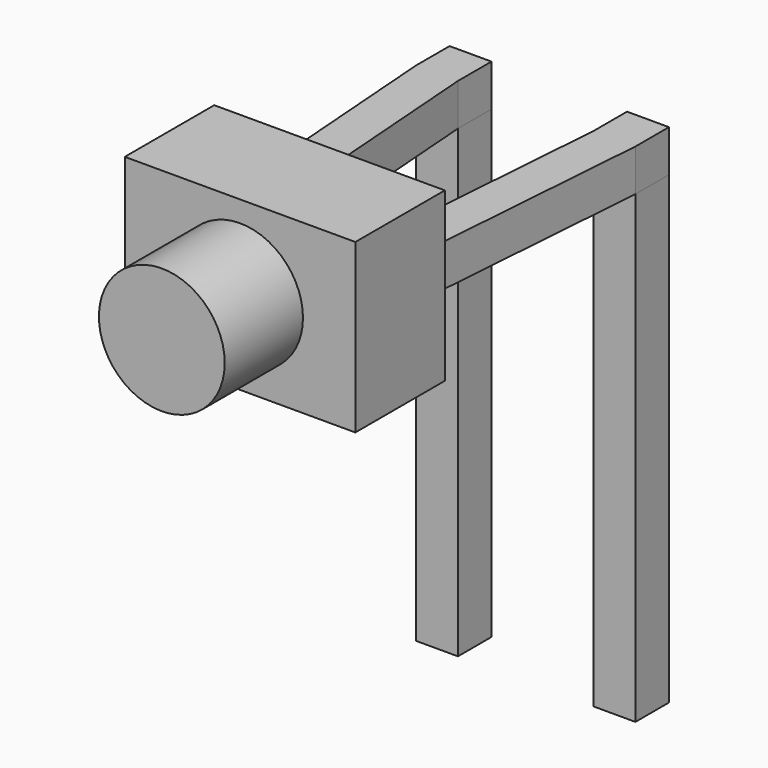
from build123d import *

# Parameters (mm, degrees)
SKETCH_W       = 0.6
SKETCH_H       = 0.6
PAD_DEPTH      = 4.65
PAD_DEPTH_BACK = 2
PAD001_DEPTH   = 0.6
SKETCH002_W    = 2.54
SKETCH002_H    = 0.6
PAD002_DEPTH   = 1
SKETCH004_W    = 3.3
SKETCH004_H    = 2.4
PAD003_DEPTH   = 1.6
SKETCH006_R    = 0.9
PAD004_DEPTH   = 1.4


with BuildPart() as pad:
    # Sketch → Pad (new body, two sides)
    with BuildSketch(Plane.XY) as pad_sk:
        Rectangle(SKETCH_W, SKETCH_H)
        with Locations((2.54, 0)):
            Rectangle(SKETCH_W, SKETCH_H)
    extrude(amount=PAD_DEPTH)
    extrude(pad_sk.sketch, amount=-PAD_DEPTH_BACK)


with BuildPart() as pad001:
    # Sketch001 → Pad001 (new body)
    with BuildSketch(Plane.XY.offset(4.65)):
        Polygon((0.3, 0.3), (-0.3, 0.3), (-0.3, -0.3), (0, -4.31), (0.6, -4.31), (0.3, -0.3), align=None)
        Polygon((2.84, 0.3), (2.24, 0.3), (2.24, -0.3), (1.94, -4.31), (2.54, -4.31), (2.84, -0.3), align=None)
    extrude(amount=PAD001_DEPTH)


with BuildPart() as pad002:
    # Sketch002 → Pad002 (new body)
    with BuildSketch(Plane.XZ.offset(4.31)):
        with Locations((1.27, 4.95)):
            Rectangle(SKETCH002_W, SKETCH002_H)
    extrude(amount=PAD002_DEPTH)


with BuildPart() as revolution001:
    # Sketch005 → Revolution001 (revolve)
    with BuildSketch(Plane.YZ.offset(1.27)):
        Polygon((-5.01, 4.95), (-5.51, 4.95), (-5.51, 5.45), align=None)
    revolve(axis=Axis((1.27, -3.977201, 4.95), (0, -1, 0)))


with BuildPart() as pad004:
    # Sketch004 → Pad003 (new body)
    with BuildSketch(Plane.XZ.offset(3.81)):
        with Locations((1.27, 4.95)):
            Rectangle(SKETCH004_W, SKETCH004_H)
    extrude(amount=PAD003_DEPTH)

    # Sketch006 → Pad004 (new body)
    with BuildSketch(Plane.XZ.offset(5.41)):
        with Locations((1.27, 4.95)):
            Circle(SKETCH006_R)
    extrude(amount=PAD004_DEPTH)


solid = Compound([pad.part, pad001.part, pad002.part, revolution001.part, pad004.part])
